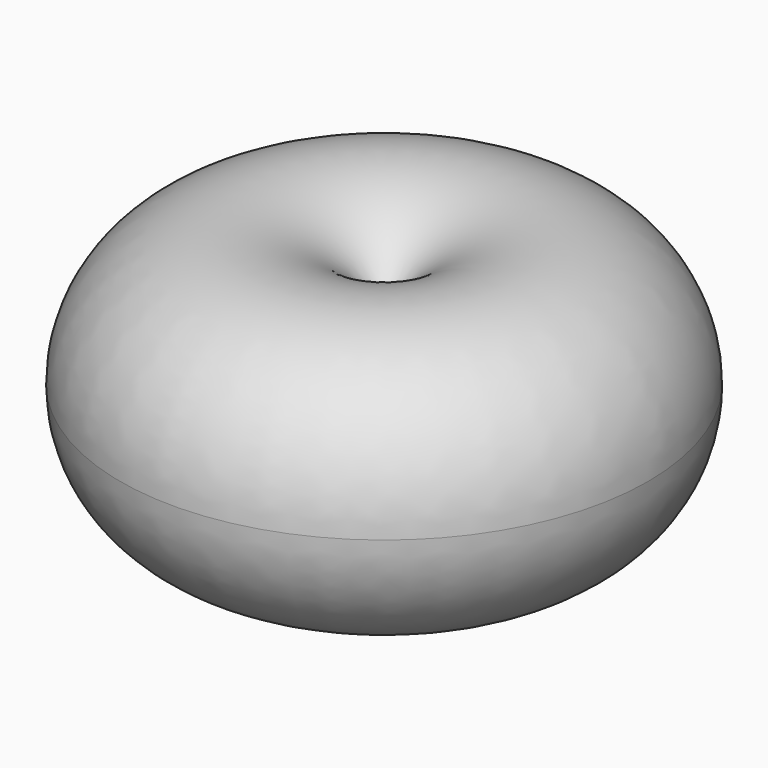
from build123d import *


with BuildPart() as f1:
    # F0 (on Front) → F1 (revolve)
    with BuildSketch(Plane.XZ):
        with BuildLine():
            Line((-76.3263478875, 33.419506283), (-76.3263478875, -33.419506283))
            ThreePointArc((-76.3263478875, -33.419506283), (17.0719371495, -81.554421977), (83.3221146038, 0))
            ThreePointArc((83.3221146038, 0), (17.0719371495, 81.554421977), (-76.3263478875, 33.419506283))
        make_face()
    revolve(axis=Axis((-76.3263478875, 0, -0.8076950908), (0, 0, 1)))


solid = f1.part
